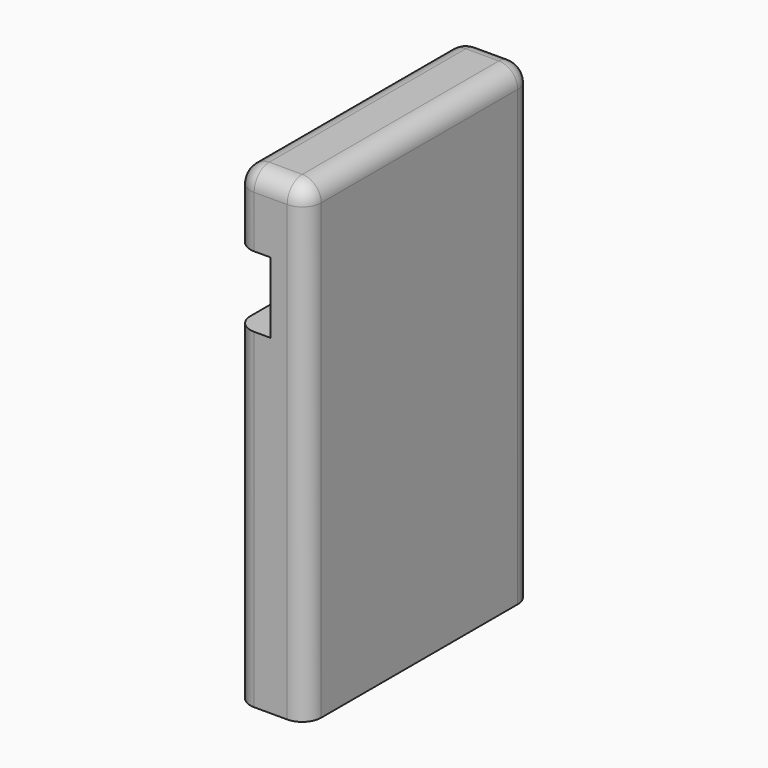
from build123d import *

# Parameters (mm, degrees)
F1_DEPTH = 76.2
F2_R     = 5.08


with BuildPart() as f1:
    # F0 (on Front) → F1 (new body)
    with BuildSketch(Plane.XZ):
        Polygon((0, 28.445911), (0, -60.454089), (19.05, -60.454089), (19.05, 66.545911), (0, 66.545911), (0, 47.495911), (9.525, 47.495911), (9.525, 28.445911), align=None)
    extrude(amount=F1_DEPTH)

    # F2
    f2_edges = [f1.edges().sort_by_distance(p)[0] for p in [
        (0, -76.2, -16.004089),
        (0, 0, -16.004089),
        (9.525, -76.2, 66.545911),
        (0, -38.1, 66.545911),
        (19.05, -76.2, 3.045911),
        (19.05, -38.1, 66.545911),
        (9.525, 0, 66.545911),
        (19.05, 0, 3.045911),
        (0, 0, 57.020911),
        (0, -76.2, 57.020911),
    ]]
    fillet(f2_edges, radius=F2_R)


solid = f1.part
